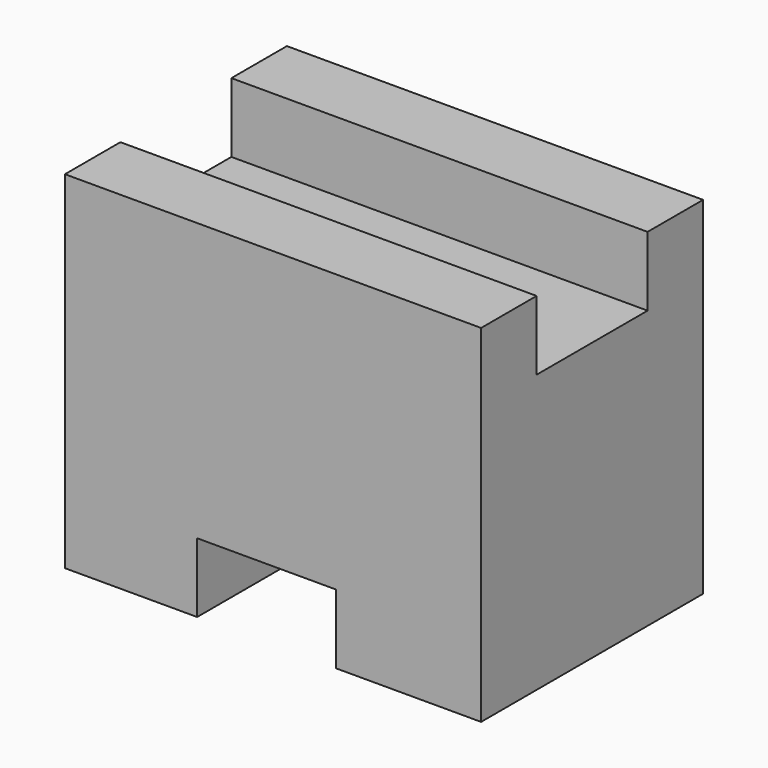
from build123d import *

# Parameters (mm, degrees)
F1_DEPTH = 38.1
F2_W     = 12.7
F2_H     = 6.35
F3_DEPTH = 25.4


with BuildPart() as f1:
    # F0 (on Right) → F1 (new body)
    with BuildSketch(Plane.YZ):
        Polygon((0, 31.75), (0, 0), (25.4, 0), (25.4, 31.75), (19.05, 31.75), (19.05, 25.4), (6.35, 25.4), (6.35, 31.75), align=None)
    extrude(amount=-F1_DEPTH)

    # F2 (on face) → F3 (cut)
    with BuildSketch(Plane(origin=(0, 25.4, 0), x_dir=(-1, 0, 0), z_dir=(0, 1, 0))):
        with Locations((19.644713, 3.175)):
            Rectangle(F2_W, F2_H)
    extrude(amount=-F3_DEPTH, mode=Mode.SUBTRACT)


solid = f1.part
